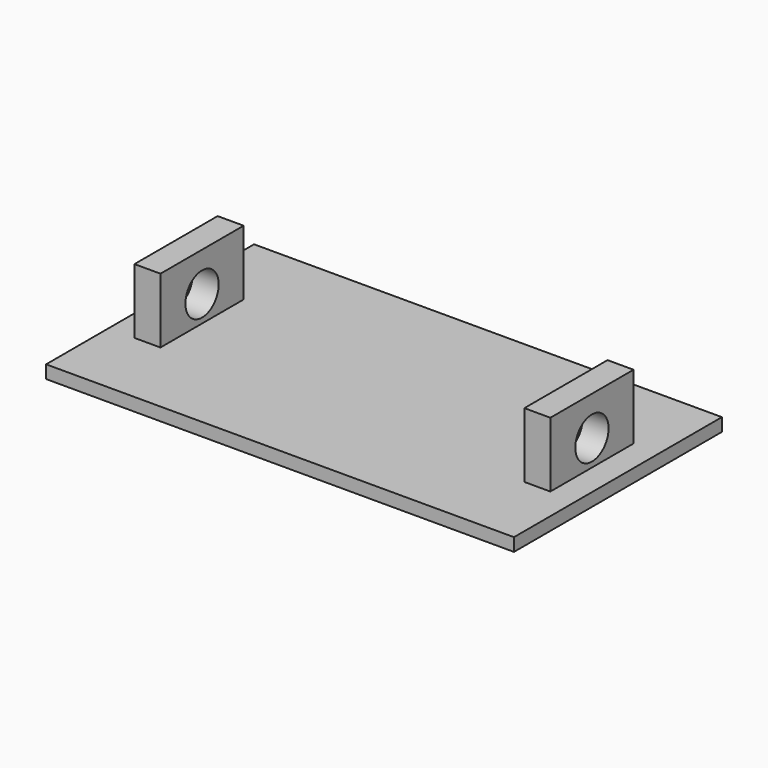
from build123d import *

# Parameters (mm, degrees)
SKETCH_W     = 180
SKETCH_H     = 100
PAD_DEPTH    = 5
SKETCH001_W  = 10
SKETCH001_H  = 40
PAD001_DEPTH = 25
SKETCH002_R  = 8
POCKET_DEPTH = 170.001


with BuildPart() as part:
    # Sketch → Pad (new body)
    with BuildSketch(Plane.XY):
        Rectangle(SKETCH_W, SKETCH_H)
    extrude(amount=PAD_DEPTH)

    # Sketch001 → Pad001 (new body)
    with BuildSketch(Plane.XY.offset(5)):
        with Locations((-75, 0)):
            Rectangle(SKETCH001_W, SKETCH001_H)
    pad001 = extrude(amount=PAD001_DEPTH)

    # Mirrored: Pad001 across Sketch001 V_Axis
    add(pad001.mirror(Plane(origin=(0, 0, 5), x_dir=(0, 0, 1), z_dir=(1, 0, 0))))

    # Sketch002 → Pocket (cut, through all)
    with BuildSketch(Plane(origin=(-80, 0, 0), x_dir=(0, -1, 0), z_dir=(-1, 0, 0))):
        with Locations((0, 15)):
            Circle(SKETCH002_R)
    extrude(amount=-POCKET_DEPTH, mode=Mode.SUBTRACT)


solid = part.part
